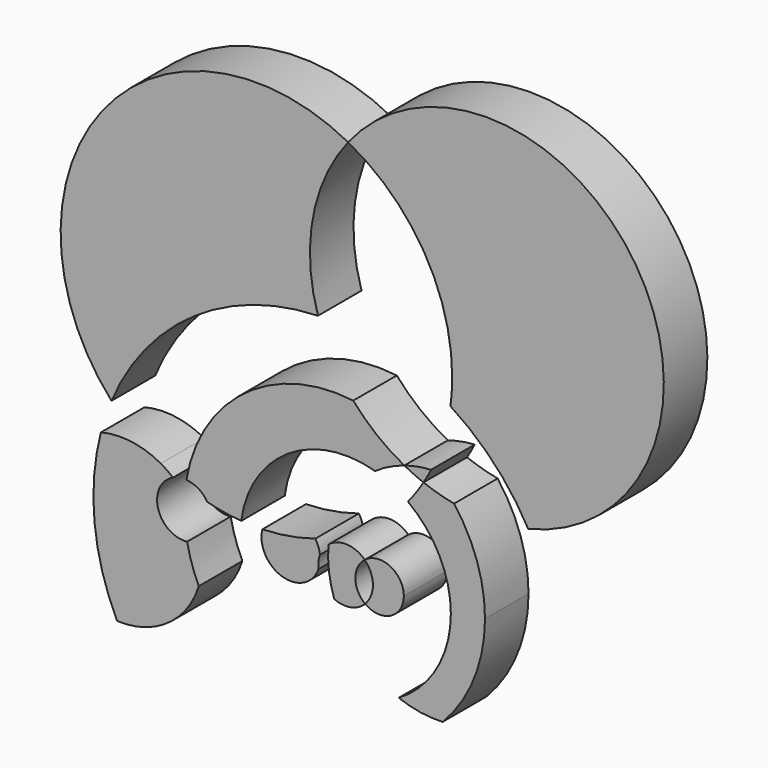
from build123d import *

# Parameters (mm, degrees)
F1_DEPTH = 25.4


with BuildPart() as f1:
    # F0 (on Front) → F1 (new body)
    with BuildSketch(Plane.XZ):
        with BuildLine():
            ThreePointArc((-99.7820331485, 41.9046056954), (-61.3357957407, 89.1648488956), (-3.4524105865, 108.1689926868))
            ThreePointArc((-3.4524105865, 108.1689926868), (-5.8270215594, 147.8401143177), (10.6108733792, 184.0234292394))
            ThreePointArc((10.6108733792, 184.0234292394), (-104.3151403106, 159.3598404599), (-99.7820331485, 41.9046056954))
        make_face()
    extrude(amount=F1_DEPTH)


with BuildPart() as f1b:
    # F0 (on Front) → F1, piece 2 (new body)
    with BuildSketch(Plane.XZ):
        with BuildLine():
            ThreePointArc((58.3423888694, 91.1516087556), (78.8833773673, 74.0936089879), (94.6229318461, 52.5257164309))
            ThreePointArc((94.6229318461, 52.5257164309), (140.1716079168, 81.6906460034), (157.8898090601, 132.7919214964))
            ThreePointArc((157.8898090601, 132.7919214964), (102.4611001387, 210.7594664765), (10.6108733792, 184.0234292394))
            ThreePointArc((10.6108733792, 184.0234292394), (46.0856017069, 150.4148967438), (59.157740084, 103.3287097598))
            ThreePointArc((59.157740084, 103.3287097598), (58.9536743226, 97.2265260017), (58.3423888694, 91.1516087556))
        make_face()
    extrude(amount=F1_DEPTH)


with BuildPart() as f1c:
    # F0 (on Front) → F1, piece 3 (new body)
    with BuildSketch(Plane.XZ):
        with BuildLine():
            ThreePointArc((74.4586447254, 9.0760244057), (70.7572303544, 31.5602585606), (60.0436427222, 51.6714567827))
            ThreePointArc((60.0436427222, 51.6714567827), (52.8151344484, 53.3744074731), (45.7689236688, 55.7201028))
            ThreePointArc((45.7689236688, 55.7201028), (42.3105782073, 50.4725272902), (38.4995673568, 45.4751881623))
            ThreePointArc((38.4995673568, 45.4751881623), (53.2375817136, 28.0800292912), (58.5306360879, 5.9038214386))
            ThreePointArc((58.5306360879, 5.9038214386), (52.0167979168, -18.5350150987), (34.2035211398, -36.489791329))
            ThreePointArc((34.2035211398, -36.489791329), (44.2800816804, -39.1645323798), (54.690052746, -39.7335793301))
            ThreePointArc((54.690052746, -39.7335793301), (69.3289164232, -17.2544458033), (74.4586447254, 9.0760244057))
        make_face()
    extrude(amount=F1_DEPTH)


with BuildPart() as f1d:
    # F0 (on Front) → F1, piece 4 (new body)
    with BuildSketch(Plane.XZ):
        with BuildLine():
            ThreePointArc((-29.403315449, 12.0320480209), (-20.0403946845, -4.3883703228), (-3.2071519288, 4.2102552739))
            ThreePointArc((-3.2071519288, 4.2102552739), (-3.2432298935, 7.3020803493), (-2.5338943744, 10.3116529165))
            ThreePointArc((-2.5338943744, 10.3116529165), (-3.263418859, 13.3947948144), (-4.6824373408, 16.2275243257))
            ThreePointArc((-4.6824373408, 16.2275243257), (-16.8982240165, 13.2774553399), (-29.403315449, 12.0320480209))
        make_face()
    extrude(amount=F1_DEPTH)


with BuildPart() as f1e:
    # F0 (on Front) → F1, piece 5 (new body)
    with BuildSketch(Plane.XZ):
        with BuildLine():
            ThreePointArc((36.8183977077, 59.7809403537), (24.032289088, 68.1232204556), (13.0010649902, 78.6773810494))
            ThreePointArc((13.0010649902, 78.6773810494), (-37.5267993685, 65.3679912413), (-64.8331324057, 20.8194883509))
            ThreePointArc((-64.8331324057, 20.8194883509), (-59.2404407457, 19.0221235644), (-55.0548746869, 14.9002602786))
            ThreePointArc((-55.0548746869, 14.9002602786), (-47.2152724966, 13.2355759025), (-39.2599239536, 12.2645114688))
            ThreePointArc((-39.2599239536, 12.2645114688), (-17.4331654783, 47.0070044847), (23.1492253152, 53.0499974504))
            ThreePointArc((23.1492253152, 53.0499974504), (29.7309432803, 56.9289927119), (36.8183977077, 59.7809403537))
        make_face()
    extrude(amount=F1_DEPTH)


with BuildPart() as f1f:
    # F0 (on Front) → F1, piece 6 (new body)
    with BuildSketch(Plane.XZ):
        with BuildLine():
            ThreePointArc((-104.7118213733, 27.3474785386), (-107.6800642713, -10.8376139555), (-97.1620467852, -47.6653624998))
            ThreePointArc((-97.1620467852, -47.6653624998), (-73.5647417971, -40.8057155829), (-59.0638345717, -20.9660772756))
            ThreePointArc((-59.0638345717, -20.9660772756), (-62.2952432462, -12.8890037347), (-64.5019363793, -4.4740394196))
            ThreePointArc((-64.5019363793, -4.4740394196), (-78.0701796096, 4.8178640714), (-71.0937063768, 19.7096576529))
            ThreePointArc((-71.0937063768, 19.7096576529), (-73.8638652855, 21.8037522882), (-76.8131849715, 23.6369260691))
            ThreePointArc((-76.8131849715, 23.6369260691), (-90.4073248826, 28.1626914149), (-104.7118213733, 27.3474785386))
        make_face()
    extrude(amount=F1_DEPTH)


with BuildPart() as f1g:
    # F0 (on Front) → F1, piece 7 (new body)
    with BuildSketch(Plane.XZ):
        with BuildLine():
            ThreePointArc((1.486309893, 15.8762545912), (1.6546949988, 4.9440931272), (4.1501411522, -5.7007768258))
            ThreePointArc((4.1501411522, -5.7007768258), (11.7747214788, -6.6270572768), (18.5476981544, -3.0050402169))
            ThreePointArc((18.5476981544, -3.0050402169), (13.9768972457, 5.9543593183), (18.3474962622, 15.0131078641))
            ThreePointArc((18.3474962622, 15.0131078641), (10.0802599781, 18.6357854253), (1.486309893, 15.8762545912))
        make_face()
    extrude(amount=F1_DEPTH)


with BuildPart() as f1h:
    # F0 (on Front) → F1, piece 8 (new body)
    with BuildSketch(Plane.XZ):
        with BuildLine():
            ThreePointArc((22.1771291455, 5.9038214386), (21.2349563131, 1.0939205738), (18.5476981544, -3.0050402169))
            ThreePointArc((18.5476981544, -3.0050402169), (30.374720524, -4.0259609568), (36.6028162094, 6.0800551437))
            ThreePointArc((36.6028162094, 6.0800551437), (30.2621243748, 16.2419464204), (18.3474962622, 15.0131078641))
            ThreePointArc((18.3474962622, 15.0131078641), (21.1807874746, 10.8446004056), (22.1771291455, 5.9038214386))
        make_face()
    extrude(amount=F1_DEPTH)


with BuildPart() as f1i:
    # F0 (on Front) → F1, piece 9 (new body)
    with BuildSketch(Plane.XZ):
        with BuildLine():
            ThreePointArc((45.7689236688, 55.7201028), (47.6069162219, 58.8690893402), (49.3177656338, 62.0889227436))
            ThreePointArc((49.3177656338, 62.0889227436), (42.9958736904, 61.3259891744), (36.8183977077, 59.7809403537))
            ThreePointArc((36.8183977077, 59.7809403537), (41.2331701262, 57.6171938239), (45.7689236688, 55.7201028))
        make_face()
    extrude(amount=F1_DEPTH)


solid = Compound([f1.part, f1b.part, f1c.part, f1d.part, f1e.part, f1f.part, f1g.part, f1h.part, f1i.part])
